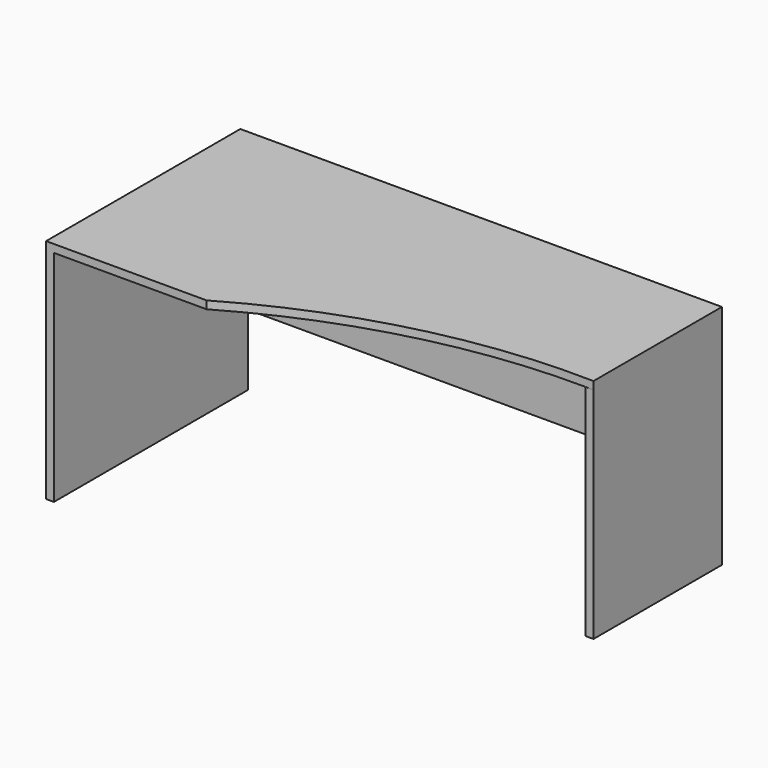
from build123d import *

# Parameters (mm, degrees)
F0_W     = 25.4
F0_H     = 787.4
F1_DEPTH = 711.2
F2_W     = 25.4
F2_H     = 787.4
F3_DEPTH = 25.4
F4_W     = 25.4
F4_H     = 520.7
F5_DEPTH = 711.2
F8_DEPTH = 25.4


with BuildPart() as f1:
    # F0 (on Top) → F1 (new body)
    with BuildSketch(Plane.XY):
        with Locations((12.7, -393.7)):
            Rectangle(F0_W, F0_H)
    extrude(amount=F1_DEPTH)

    # F2 (on face) → F3 (join)
    with BuildSketch(Plane.XY.offset(711.2)):
        with BuildLine():
            Line((1562.1, 0), (25.4, 0))
            Line((25.4, 0), (25.4, -787.4))
            Line((25.4, -787.4), (520.7, -787.4))
            ThreePointArc((520.7, -787.4), (1022.965212, -582.066542), (1562.1, -520.7))
            Line((1562.1, -520.7), (1562.1, 0))
        make_face()
        with Locations((12.7, -393.7)):
            Rectangle(F2_W, F2_H)
    extrude(amount=F3_DEPTH)

    # F4 (on Top) → F5 (join)
    with BuildSketch(Plane.XY):
        with Locations((1549.4, -260.35)):
            Rectangle(F4_W, F4_H)
    extrude(amount=F5_DEPTH)

    # F7 (on offset) → F8 (join)
    with BuildSketch(Plane.XZ.offset(127)):
        with BuildLine():
            Line((25.4, 673.1), (25.4, 330.2))
            Line((25.4, 330.2), (1536.7, 330.2))
            Line((1536.7, 330.2), (1536.7, 673.1))
            Line((1536.7, 673.1), (1155.7, 673.1))
            ThreePointArc((1155.7, 673.1), (1078.855779, 682.776021), (1006.809008, 711.2))
            Line((1006.809008, 711.2), (555.290992, 711.2))
            ThreePointArc((555.290992, 711.2), (483.244221, 682.776021), (406.4, 673.1))
            Line((406.4, 673.1), (25.4, 673.1))
        make_face()
    extrude(amount=F8_DEPTH)


solid = f1.part
